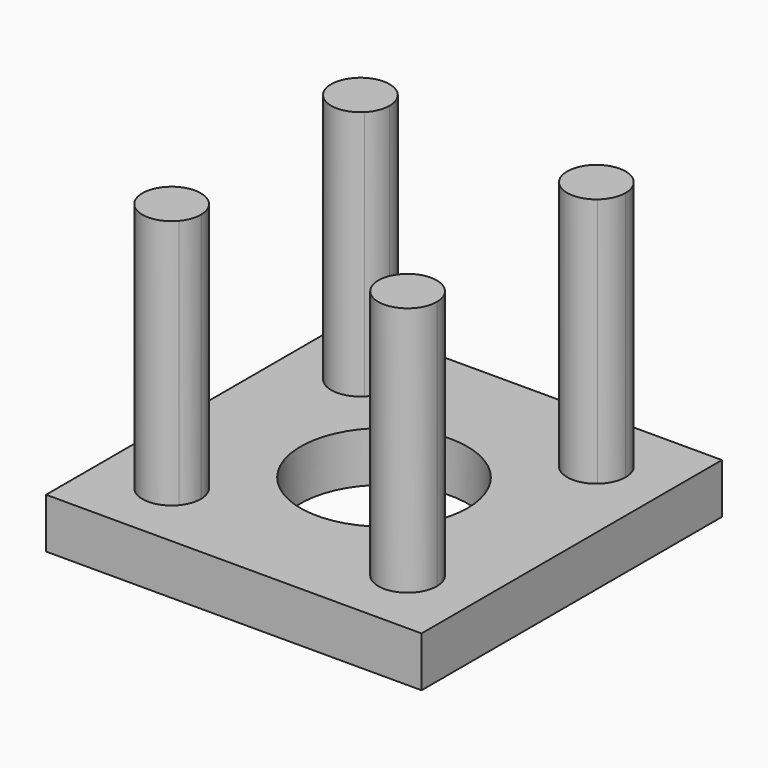
from build123d import *

# Parameters (mm, degrees)
F0_W     = 57.15
F0_H     = 57.15
F1_DEPTH = 7.62
F2_DEPTH = 7.62
F3_DEPTH = 38.1


with BuildPart() as f1:
    # F0 (on Top) → F1 (new body)
    with BuildSketch(Plane.XY):
        Rectangle(F0_W, F0_H)
        with BuildLine():
            ThreePointArc((20.8165262819, 14.5544575149), (24.2270485982, 7.6295554405), (25.4, 0))
            ThreePointArc((25.4, 0), (24.2270485982, -7.6295554405), (20.8165262819, -14.5544575149))
            ThreePointArc((20.8165262819, -14.5544575149), (21.9887257051, -16.0812780107), (22.4055122421, -17.9605122421))
            ThreePointArc((22.4055122421, -17.9605122421), (19.4800700294, -22.1377085664), (14.5544575149, -20.8165262819))
            ThreePointArc((14.5544575149, -20.8165262819), (0, -25.4), (-14.5544575149, -20.8165262819))
            ThreePointArc((-14.5544575149, -20.8165262819), (-21.1036018845, -21.1036018845), (-20.8165262819, -14.5544575149))
            ThreePointArc((-20.8165262819, -14.5544575149), (-25.4, 0), (-20.8165262819, 14.5544575149))
            ThreePointArc((-20.8165262819, 14.5544575149), (-21.1036018845, 21.1036018845), (-14.5544575149, 20.8165262819))
            ThreePointArc((-14.5544575149, 20.8165262819), (0, 25.4), (14.5544575149, 20.8165262819))
            ThreePointArc((14.5544575149, 20.8165262819), (19.4800700294, 22.1377085664), (22.4055122421, 17.9605122421))
            ThreePointArc((22.4055122421, 17.9605122421), (21.9887257051, 16.0812780107), (20.8165262819, 14.5544575149))
        make_face(mode=Mode.SUBTRACT)
        with BuildLine():
            ThreePointArc((-8.9802561211, -8.9802561211), (-12.7, 0), (-8.9802561211, 8.9802561211))
            Line((-8.9802561211, 8.9802561211), (-14.8174225998, 14.8174225998))
            ThreePointArc((-14.8174225998, 14.8174225998), (-17.7658567532, 13.5197764652), (-20.8165262819, 14.5544575149))
            ThreePointArc((-20.8165262819, 14.5544575149), (-25.4, 0), (-20.8165262819, -14.5544575149))
            ThreePointArc((-20.8165262819, -14.5544575149), (-17.7658567532, -13.5197764652), (-14.8174225998, -14.8174225998))
            Line((-14.8174225998, -14.8174225998), (-8.9802561211, -8.9802561211))
        make_face()
        with BuildLine():
            ThreePointArc((14.5544575149, -20.8165262819), (13.5197764652, -17.7658567532), (14.8174225998, -14.8174225998))
            Line((14.8174225998, -14.8174225998), (8.9802561211, -8.9802561211))
            ThreePointArc((8.9802561211, -8.9802561211), (0, -12.7), (-8.9802561211, -8.9802561211))
            Line((-8.9802561211, -8.9802561211), (-14.8174225998, -14.8174225998))
            ThreePointArc((-14.8174225998, -14.8174225998), (-13.8538677201, -16.2594843853), (-13.5155122421, -17.9605122421))
            ThreePointArc((-13.5155122421, -17.9605122421), (-13.7833159179, -19.4800700294), (-14.5544575149, -20.8165262819))
            ThreePointArc((-14.5544575149, -20.8165262819), (0, -25.4), (14.5544575149, -20.8165262819))
        make_face()
        with BuildLine():
            ThreePointArc((20.8165262819, -14.5544575149), (24.2270485982, -7.6295554405), (25.4, 0))
            ThreePointArc((25.4, 0), (24.2270485982, 7.6295554405), (20.8165262819, 14.5544575149))
            ThreePointArc((20.8165262819, 14.5544575149), (17.7658567532, 13.5197764652), (14.8174225998, 14.8174225998))
            Line((14.8174225998, 14.8174225998), (8.9802561211, 8.9802561211))
            ThreePointArc((8.9802561211, 8.9802561211), (11.7332700629, 4.860079591), (12.7, 0))
            ThreePointArc((12.7, 0), (11.7332700629, -4.860079591), (8.9802561211, -8.9802561211))
            Line((8.9802561211, -8.9802561211), (14.8174225998, -14.8174225998))
            ThreePointArc((14.8174225998, -14.8174225998), (17.7658567532, -13.5197764652), (20.8165262819, -14.5544575149))
        make_face()
        with BuildLine():
            Line((8.9802561211, 8.9802561211), (14.8174225998, 14.8174225998))
            ThreePointArc((14.8174225998, 14.8174225998), (13.5197764652, 17.7658567532), (14.5544575149, 20.8165262819))
            ThreePointArc((14.5544575149, 20.8165262819), (0, 25.4), (-14.5544575149, 20.8165262819))
            ThreePointArc((-14.5544575149, 20.8165262819), (-13.7833159179, 19.4800700294), (-13.5155122421, 17.9605122421))
            ThreePointArc((-13.5155122421, 17.9605122421), (-13.8538677201, 16.2594843853), (-14.8174225998, 14.8174225998))
            Line((-14.8174225998, 14.8174225998), (-8.9802561211, 8.9802561211))
            ThreePointArc((-8.9802561211, 8.9802561211), (0, 12.7), (8.9802561211, 8.9802561211))
        make_face()
        with BuildLine():
            Line((0, 0), (8.9802561211, 8.9802561211))
            ThreePointArc((8.9802561211, 8.9802561211), (0, 12.7), (-8.9802561211, 8.9802561211))
            Line((-8.9802561211, 8.9802561211), (0, 0))
        make_face()
        with BuildLine():
            ThreePointArc((12.7, 0), (11.7332700629, 4.860079591), (8.9802561211, 8.9802561211))
            Line((8.9802561211, 8.9802561211), (0, 0))
            Line((0, 0), (8.9802561211, -8.9802561211))
            ThreePointArc((8.9802561211, -8.9802561211), (11.7332700629, -4.860079591), (12.7, 0))
        make_face()
        with BuildLine():
            ThreePointArc((-8.9802561211, -8.9802561211), (0, -12.7), (8.9802561211, -8.9802561211))
            Line((8.9802561211, -8.9802561211), (0, 0))
            Line((0, 0), (-8.9802561211, -8.9802561211))
        make_face()
        with BuildLine():
            Line((-8.9802561211, -8.9802561211), (0, 0))
            Line((0, 0), (-8.9802561211, 8.9802561211))
            ThreePointArc((-8.9802561211, 8.9802561211), (-12.7, 0), (-8.9802561211, -8.9802561211))
        make_face()
        with BuildLine():
            ThreePointArc((-20.8165262819, -14.5544575149), (-21.1036018845, -21.1036018845), (-14.5544575149, -20.8165262819))
            ThreePointArc((-14.5544575149, -20.8165262819), (-16.3200802273, -19.4631698697), (-17.9605122421, -17.9605122421))
            ThreePointArc((-17.9605122421, -17.9605122421), (-19.4631698697, -16.3200802273), (-20.8165262819, -14.5544575149))
        make_face()
        with BuildLine():
            ThreePointArc((22.4055122421, -17.9605122421), (21.9887257051, -16.0812780107), (20.8165262819, -14.5544575149))
            ThreePointArc((20.8165262819, -14.5544575149), (19.4631698697, -16.3200802273), (17.9605122421, -17.9605122421))
            ThreePointArc((17.9605122421, -17.9605122421), (16.3200802273, -19.4631698697), (14.5544575149, -20.8165262819))
            ThreePointArc((14.5544575149, -20.8165262819), (19.4800700294, -22.1377085664), (22.4055122421, -17.9605122421))
        make_face()
        with BuildLine():
            ThreePointArc((17.9605122421, 17.9605122421), (19.4631698697, 16.3200802273), (20.8165262819, 14.5544575149))
            ThreePointArc((20.8165262819, 14.5544575149), (21.9887257051, 16.0812780107), (22.4055122421, 17.9605122421))
            ThreePointArc((22.4055122421, 17.9605122421), (19.4800700294, 22.1377085664), (14.5544575149, 20.8165262819))
            ThreePointArc((14.5544575149, 20.8165262819), (16.3200802273, 19.4631698697), (17.9605122421, 17.9605122421))
        make_face()
        with BuildLine():
            ThreePointArc((-17.9605122421, 17.9605122421), (-16.3200802273, 19.4631698697), (-14.5544575149, 20.8165262819))
            ThreePointArc((-14.5544575149, 20.8165262819), (-21.1036018845, 21.1036018845), (-20.8165262819, 14.5544575149))
            ThreePointArc((-20.8165262819, 14.5544575149), (-19.4631698697, 16.3200802273), (-17.9605122421, 17.9605122421))
        make_face()
        with BuildLine():
            ThreePointArc((-17.9605122421, -17.9605122421), (-16.3200802273, -19.4631698697), (-14.5544575149, -20.8165262819))
            ThreePointArc((-14.5544575149, -20.8165262819), (-13.7833159179, -19.4800700294), (-13.5155122421, -17.9605122421))
            ThreePointArc((-13.5155122421, -17.9605122421), (-13.8538677201, -16.2594843853), (-14.8174225998, -14.8174225998))
            Line((-14.8174225998, -14.8174225998), (-17.9605122421, -17.9605122421))
        make_face()
        with BuildLine():
            ThreePointArc((-20.8165262819, -14.5544575149), (-19.4631698697, -16.3200802273), (-17.9605122421, -17.9605122421))
            Line((-17.9605122421, -17.9605122421), (-14.8174225998, -14.8174225998))
            ThreePointArc((-14.8174225998, -14.8174225998), (-17.7658567532, -13.5197764652), (-20.8165262819, -14.5544575149))
        make_face()
        with BuildLine():
            ThreePointArc((14.5544575149, -20.8165262819), (16.3200802273, -19.4631698697), (17.9605122421, -17.9605122421))
            Line((17.9605122421, -17.9605122421), (14.8174225998, -14.8174225998))
            ThreePointArc((14.8174225998, -14.8174225998), (13.5197764652, -17.7658567532), (14.5544575149, -20.8165262819))
        make_face()
        with BuildLine():
            ThreePointArc((17.9605122421, -17.9605122421), (19.4631698697, -16.3200802273), (20.8165262819, -14.5544575149))
            ThreePointArc((20.8165262819, -14.5544575149), (17.7658567532, -13.5197764652), (14.8174225998, -14.8174225998))
            Line((14.8174225998, -14.8174225998), (17.9605122421, -17.9605122421))
        make_face()
        with BuildLine():
            ThreePointArc((14.8174225998, 14.8174225998), (17.7658567532, 13.5197764652), (20.8165262819, 14.5544575149))
            ThreePointArc((20.8165262819, 14.5544575149), (19.4631698697, 16.3200802273), (17.9605122421, 17.9605122421))
            Line((17.9605122421, 17.9605122421), (14.8174225998, 14.8174225998))
        make_face()
        with BuildLine():
            Line((14.8174225998, 14.8174225998), (17.9605122421, 17.9605122421))
            ThreePointArc((17.9605122421, 17.9605122421), (16.3200802273, 19.4631698697), (14.5544575149, 20.8165262819))
            ThreePointArc((14.5544575149, 20.8165262819), (13.5197764652, 17.7658567532), (14.8174225998, 14.8174225998))
        make_face()
        with BuildLine():
            ThreePointArc((-13.5155122421, 17.9605122421), (-13.7833159179, 19.4800700294), (-14.5544575149, 20.8165262819))
            ThreePointArc((-14.5544575149, 20.8165262819), (-16.3200802273, 19.4631698697), (-17.9605122421, 17.9605122421))
            Line((-17.9605122421, 17.9605122421), (-14.8174225998, 14.8174225998))
            ThreePointArc((-14.8174225998, 14.8174225998), (-13.8538677201, 16.2594843853), (-13.5155122421, 17.9605122421))
        make_face()
        with BuildLine():
            Line((-14.8174225998, 14.8174225998), (-17.9605122421, 17.9605122421))
            ThreePointArc((-17.9605122421, 17.9605122421), (-19.4631698697, 16.3200802273), (-20.8165262819, 14.5544575149))
            ThreePointArc((-20.8165262819, 14.5544575149), (-17.7658567532, 13.5197764652), (-14.8174225998, 14.8174225998))
        make_face()
    extrude(amount=-F1_DEPTH)

    # F0 (on Top) → F2 (cut)
    with BuildSketch(Plane.XY):
        with BuildLine():
            ThreePointArc((-8.9802561211, -8.9802561211), (0, -12.7), (8.9802561211, -8.9802561211))
            Line((8.9802561211, -8.9802561211), (0, 0))
            Line((0, 0), (-8.9802561211, -8.9802561211))
        make_face()
        with BuildLine():
            ThreePointArc((12.7, 0), (11.7332700629, 4.860079591), (8.9802561211, 8.9802561211))
            Line((8.9802561211, 8.9802561211), (0, 0))
            Line((0, 0), (8.9802561211, -8.9802561211))
            ThreePointArc((8.9802561211, -8.9802561211), (11.7332700629, -4.860079591), (12.7, 0))
        make_face()
        with BuildLine():
            Line((0, 0), (8.9802561211, 8.9802561211))
            ThreePointArc((8.9802561211, 8.9802561211), (0, 12.7), (-8.9802561211, 8.9802561211))
            Line((-8.9802561211, 8.9802561211), (0, 0))
        make_face()
        with BuildLine():
            Line((-8.9802561211, -8.9802561211), (0, 0))
            Line((0, 0), (-8.9802561211, 8.9802561211))
            ThreePointArc((-8.9802561211, 8.9802561211), (-12.7, 0), (-8.9802561211, -8.9802561211))
        make_face()
    extrude(amount=-F2_DEPTH, mode=Mode.SUBTRACT)

    # F0 (on Top) → F3 (join)
    with BuildSketch(Plane.XY):
        with BuildLine():
            ThreePointArc((-20.8165262819, -14.5544575149), (-21.1036018845, -21.1036018845), (-14.5544575149, -20.8165262819))
            ThreePointArc((-14.5544575149, -20.8165262819), (-16.3200802273, -19.4631698697), (-17.9605122421, -17.9605122421))
            ThreePointArc((-17.9605122421, -17.9605122421), (-19.4631698697, -16.3200802273), (-20.8165262819, -14.5544575149))
        make_face()
        with BuildLine():
            ThreePointArc((-20.8165262819, -14.5544575149), (-19.4631698697, -16.3200802273), (-17.9605122421, -17.9605122421))
            Line((-17.9605122421, -17.9605122421), (-14.8174225998, -14.8174225998))
            ThreePointArc((-14.8174225998, -14.8174225998), (-17.7658567532, -13.5197764652), (-20.8165262819, -14.5544575149))
        make_face()
        with BuildLine():
            ThreePointArc((-17.9605122421, -17.9605122421), (-16.3200802273, -19.4631698697), (-14.5544575149, -20.8165262819))
            ThreePointArc((-14.5544575149, -20.8165262819), (-13.7833159179, -19.4800700294), (-13.5155122421, -17.9605122421))
            ThreePointArc((-13.5155122421, -17.9605122421), (-13.8538677201, -16.2594843853), (-14.8174225998, -14.8174225998))
            Line((-14.8174225998, -14.8174225998), (-17.9605122421, -17.9605122421))
        make_face()
        with BuildLine():
            ThreePointArc((14.5544575149, -20.8165262819), (16.3200802273, -19.4631698697), (17.9605122421, -17.9605122421))
            Line((17.9605122421, -17.9605122421), (14.8174225998, -14.8174225998))
            ThreePointArc((14.8174225998, -14.8174225998), (13.5197764652, -17.7658567532), (14.5544575149, -20.8165262819))
        make_face()
        with BuildLine():
            ThreePointArc((17.9605122421, -17.9605122421), (19.4631698697, -16.3200802273), (20.8165262819, -14.5544575149))
            ThreePointArc((20.8165262819, -14.5544575149), (17.7658567532, -13.5197764652), (14.8174225998, -14.8174225998))
            Line((14.8174225998, -14.8174225998), (17.9605122421, -17.9605122421))
        make_face()
        with BuildLine():
            ThreePointArc((22.4055122421, -17.9605122421), (21.9887257051, -16.0812780107), (20.8165262819, -14.5544575149))
            ThreePointArc((20.8165262819, -14.5544575149), (19.4631698697, -16.3200802273), (17.9605122421, -17.9605122421))
            ThreePointArc((17.9605122421, -17.9605122421), (16.3200802273, -19.4631698697), (14.5544575149, -20.8165262819))
            ThreePointArc((14.5544575149, -20.8165262819), (19.4800700294, -22.1377085664), (22.4055122421, -17.9605122421))
        make_face()
        with BuildLine():
            ThreePointArc((17.9605122421, 17.9605122421), (19.4631698697, 16.3200802273), (20.8165262819, 14.5544575149))
            ThreePointArc((20.8165262819, 14.5544575149), (21.9887257051, 16.0812780107), (22.4055122421, 17.9605122421))
            ThreePointArc((22.4055122421, 17.9605122421), (19.4800700294, 22.1377085664), (14.5544575149, 20.8165262819))
            ThreePointArc((14.5544575149, 20.8165262819), (16.3200802273, 19.4631698697), (17.9605122421, 17.9605122421))
        make_face()
        with BuildLine():
            ThreePointArc((14.8174225998, 14.8174225998), (17.7658567532, 13.5197764652), (20.8165262819, 14.5544575149))
            ThreePointArc((20.8165262819, 14.5544575149), (19.4631698697, 16.3200802273), (17.9605122421, 17.9605122421))
            Line((17.9605122421, 17.9605122421), (14.8174225998, 14.8174225998))
        make_face()
        with BuildLine():
            Line((14.8174225998, 14.8174225998), (17.9605122421, 17.9605122421))
            ThreePointArc((17.9605122421, 17.9605122421), (16.3200802273, 19.4631698697), (14.5544575149, 20.8165262819))
            ThreePointArc((14.5544575149, 20.8165262819), (13.5197764652, 17.7658567532), (14.8174225998, 14.8174225998))
        make_face()
        with BuildLine():
            ThreePointArc((-17.9605122421, 17.9605122421), (-16.3200802273, 19.4631698697), (-14.5544575149, 20.8165262819))
            ThreePointArc((-14.5544575149, 20.8165262819), (-21.1036018845, 21.1036018845), (-20.8165262819, 14.5544575149))
            ThreePointArc((-20.8165262819, 14.5544575149), (-19.4631698697, 16.3200802273), (-17.9605122421, 17.9605122421))
        make_face()
        with BuildLine():
            ThreePointArc((-13.5155122421, 17.9605122421), (-13.7833159179, 19.4800700294), (-14.5544575149, 20.8165262819))
            ThreePointArc((-14.5544575149, 20.8165262819), (-16.3200802273, 19.4631698697), (-17.9605122421, 17.9605122421))
            Line((-17.9605122421, 17.9605122421), (-14.8174225998, 14.8174225998))
            ThreePointArc((-14.8174225998, 14.8174225998), (-13.8538677201, 16.2594843853), (-13.5155122421, 17.9605122421))
        make_face()
        with BuildLine():
            Line((-14.8174225998, 14.8174225998), (-17.9605122421, 17.9605122421))
            ThreePointArc((-17.9605122421, 17.9605122421), (-19.4631698697, 16.3200802273), (-20.8165262819, 14.5544575149))
            ThreePointArc((-20.8165262819, 14.5544575149), (-17.7658567532, 13.5197764652), (-14.8174225998, 14.8174225998))
        make_face()
    extrude(amount=F3_DEPTH)


solid = f1.part
